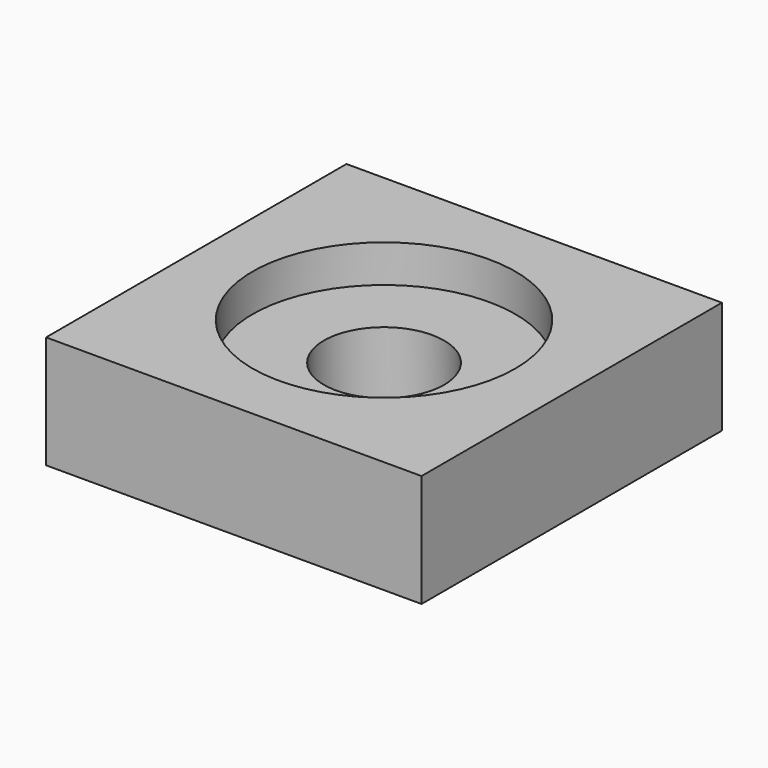
from build123d import *

# Parameters (mm, degrees)
CYLINDER001_R     = 1.6
CYLINDER001_DEPTH = 10
CYLINDER_R        = 3.5
CYLINDER_DEPTH    = 10
BOX001_W          = 10
BOX001_H          = 10
BOX001_DEPTH      = 3


with BuildPart() as cylinder001:
    # Cylinder001 → Cylinder001 (new body)
    with BuildSketch(Plane.XY):
        Circle(CYLINDER001_R)
    extrude(amount=CYLINDER001_DEPTH)


with BuildPart() as cylinder:
    # Cylinder → Cylinder (new body)
    with BuildSketch(Plane.XY.offset(2)):
        Circle(CYLINDER_R)
    extrude(amount=CYLINDER_DEPTH)


with BuildPart() as screw_hole:
    # Box001 → Box001 (new body)
    with BuildSketch(Plane(origin=(-5, -5, 0), x_dir=(1, 0, 0), z_dir=(0, 0, 1))):
        with Locations((5, 5)):
            Rectangle(BOX001_W, BOX001_H)
    extrude(amount=BOX001_DEPTH)

    # Cut: cut Cylinder
    add(cylinder.part, mode=Mode.SUBTRACT)

    # Cut001: cut Cylinder001
    add(cylinder001.part, mode=Mode.SUBTRACT)


solid = screw_hole.part
